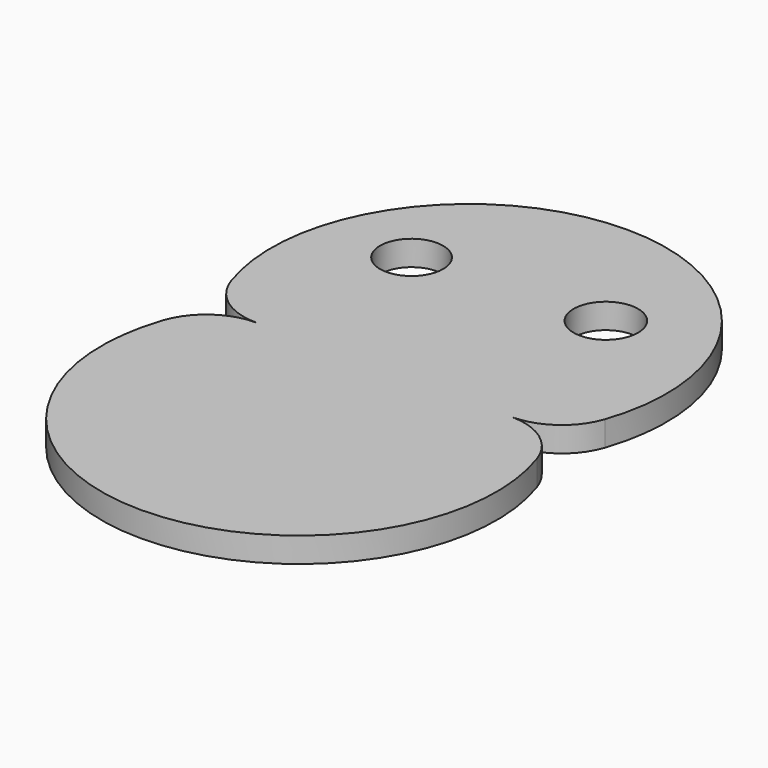
from build123d import *

# Parameters (mm, degrees)
F0_R     = 3.200893
F0_R_2   = 3.273929
F1_DEPTH = 2.54


with BuildPart() as f1:
    # F0 (on Top) → F1 (new body)
    with BuildSketch(Plane.XY):
        with BuildLine():
            ThreePointArc((-58.882854, 22.4153), (-56.56801, 19.299288), (-52.87202, 18.112828))
            ThreePointArc((-52.87202, 18.112828), (-56.56801, 16.926369), (-58.882854, 13.810357))
            ThreePointArc((-58.882854, 13.810357), (-39.913036, -12.69172), (-20.943218, 13.810357))
            ThreePointArc((-20.943218, 13.810357), (-23.258062, 16.926369), (-26.954052, 18.112828))
            ThreePointArc((-26.954052, 18.112828), (-23.258062, 19.299288), (-20.943218, 22.4153))
            ThreePointArc((-20.943218, 22.4153), (-39.913036, 48.917377), (-58.882854, 22.4153))
        make_face()
        with Locations((-50.251894, 34.530632)):
            Circle(F0_R, mode=Mode.SUBTRACT)
        with Locations((-31.442527, 35.65358)):
            Circle(F0_R_2, mode=Mode.SUBTRACT)
    extrude(amount=F1_DEPTH)


solid = f1.part
